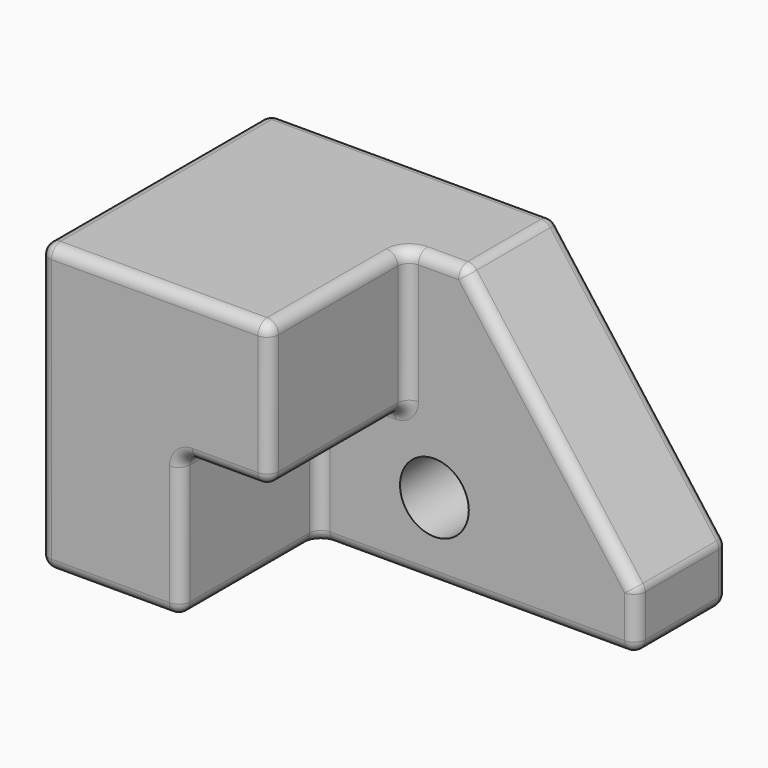
from build123d import *

# Parameters (mm, degrees)
F0_W     = 203.2
F0_H     = 127
F1_DEPTH = 127
F3_DEPTH = 76.2
F4_SIZE2 = 101.6
F4_SIZE  = 76.2
F5_R     = 5.08
F6_R     = 15.24
F7_DEPTH = 76.2


with BuildPart() as f1:
    # F0 (on Front) → F1 (new body)
    with BuildSketch(Plane.XZ):
        Rectangle(F0_W, F0_H)
    extrude(amount=F1_DEPTH)

    # F2 (on face) → F3 (cut)
    with BuildSketch(Plane.XZ.offset(127)):
        Polygon((101.6, 63.5), (0, 63.5), (0, 0), (-39.1343943775, 0), (-39.1343943775, -63.5), (101.6, -63.5), align=None)
    extrude(amount=-F3_DEPTH, mode=Mode.SUBTRACT)

    # F4
    f4_edges = [f1.edges().sort_by_distance(p)[0] for p in [
        (101.6, -25.4, 63.5),
    ]]
    f4_side = f1.faces().sort_by_distance((-21.771429, -52.614286, 63.5))[0]
    chamfer(f4_edges, length=F4_SIZE, length2=F4_SIZE2, reference=f4_side)

    # F5
    f5_edges = [f1.edges().sort_by_distance(p)[0] for p in [
        (-38.1, 0, 63.5),
        (25.4, -25.4, 63.5),
        (-101.6, -63.5, 63.5),
        (12.7, -50.8, 63.5),
        (-50.8, -127, 63.5),
        (0, -88.9, 63.5),
        (0, -127, 31.75),
        (-19.567197, -127, 0),
        (-39.134394, -127, -31.75),
        (-70.367197, -127, -63.5),
        (-101.6, -127, 0),
        (-39.134394, -88.9, 0),
        (-39.134394, -88.9, -63.5),
        (-39.134394, -50.8, -31.75),
        (0, -88.9, 0),
        (0, -50.8, 31.75),
        (63.5, -50.8, 12.7),
        (101.6, -50.8, -50.8),
        (-19.567197, -50.8, 0),
        (31.232803, -50.8, -63.5),
        (63.5, 0, 12.7),
        (101.6, -25.4, -38.1),
        (101.6, 0, -50.8),
        (101.6, -25.4, -63.5),
        (-101.6, 0, 0),
        (0, 0, -63.5),
        (-101.6, -63.5, -63.5),
    ]]
    fillet(f5_edges, radius=F5_R)

    # F6 (on face) → F7 (cut)
    with BuildSketch(Plane.XZ.offset(50.8)):
        with Locations((12.1788298711, -30.0629306585)):
            Circle(F6_R)
    extrude(amount=-F7_DEPTH, mode=Mode.SUBTRACT)


solid = f1.part
